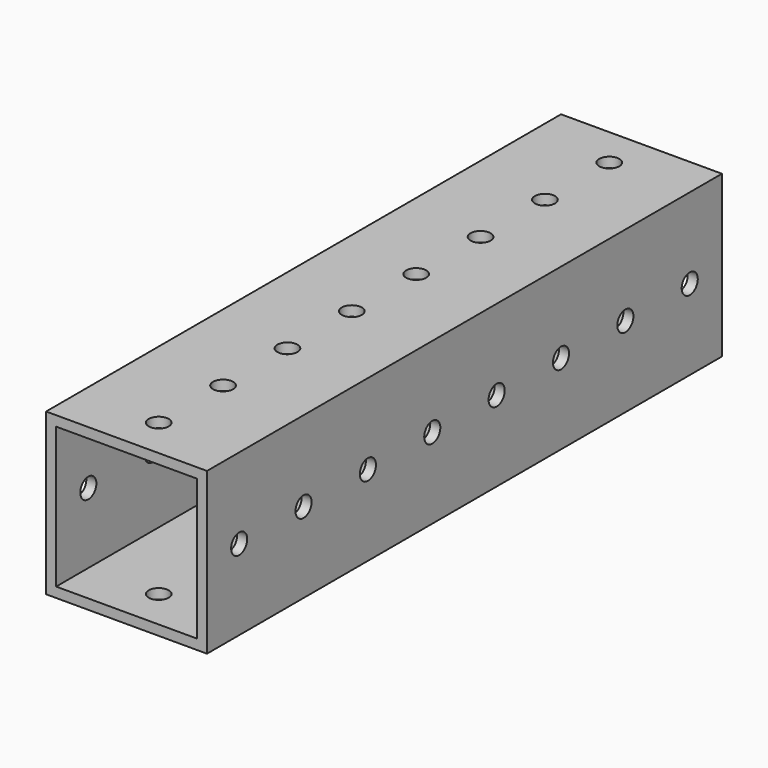
from build123d import *

# Parameters (mm, degrees)
F0_W     = 25.4
F0_H     = 25.4
F0_W_2   = 22.225
F0_H_2   = 22.225
F1_DEPTH = 101.6
F2_R     = 1.5875
F3_DEPTH = 25.4
F4_R     = 1.5875
F5_DEPTH = 25.4


with BuildPart() as f1:
    # F0 (on Front) → F1 (new body)
    with BuildSketch(Plane.XZ):
        Rectangle(F0_W, F0_H)
        Rectangle(F0_W_2, F0_H_2, mode=Mode.SUBTRACT)
    extrude(amount=F1_DEPTH)

    # F2 (on face) → F3 (cut)
    with BuildSketch(Plane.XY.offset(12.7)):
        with Locations((0, -6.35)):
            Circle(F2_R)
        with Locations((0, -19.05)):
            Circle(F2_R)
        with Locations((0, -31.75)):
            Circle(F2_R)
        with Locations((0, -44.45)):
            Circle(F2_R)
        with Locations((0, -57.15)):
            Circle(F2_R)
        with Locations((0, -69.85)):
            Circle(F2_R)
        with Locations((0, -82.55)):
            Circle(F2_R)
        with Locations((0, -95.25)):
            Circle(F2_R)
    extrude(amount=-F3_DEPTH, mode=Mode.SUBTRACT)

    # F4 (on face) → F5 (cut)
    with BuildSketch(Plane.YZ.offset(12.7)):
        with Locations((-6.35, 0)):
            Circle(F4_R)
        with Locations((-19.05, 0)):
            Circle(F4_R)
        with Locations((-31.75, 0)):
            Circle(F4_R)
        with Locations((-44.45, 0)):
            Circle(F4_R)
        with Locations((-57.15, 0)):
            Circle(F4_R)
        with Locations((-69.85, 0)):
            Circle(F4_R)
        with Locations((-82.55, 0)):
            Circle(F4_R)
        with Locations((-95.25, 0)):
            Circle(F4_R)
    extrude(amount=-F5_DEPTH, mode=Mode.SUBTRACT)


solid = f1.part
